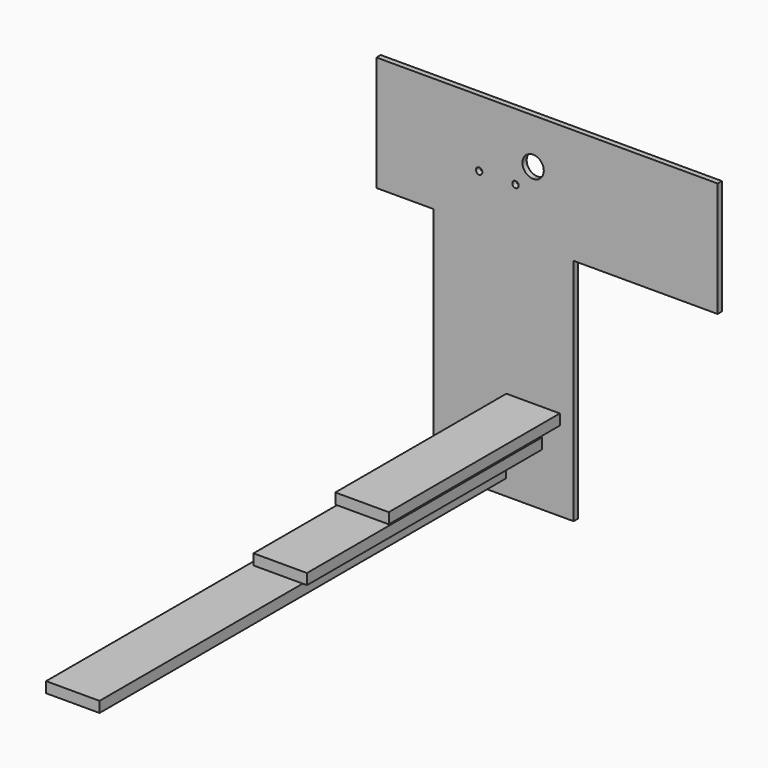
from build123d import *

# Parameters (mm, degrees)
F0_W     = 33
F0_H     = 259.7026857734
F1_DEPTH = 10
F0_W_2   = 17
F0_H_2   = 20
F2_DEPTH = 400
F3_DEPTH = 550
F4_DEPTH = 950


with BuildPart() as f1:
    # F0 (on Front) → F1 (new body)
    with BuildSketch(Plane.XZ):
        Polygon((-127.319598034, -467.7383065224), (-162.6763641834, -467.7383065224), (-162.6763641834, -516.9078111649), (99.3499830365, -516.9078111649), (99.3499830365, -467.7383065224), (-27.319598034, -467.7383065224), (-27.319598034, -487.7383065224), (-127.319598034, -487.7383065224), align=None)
        Polygon((99.3499830365, -88.035620749), (23.680401966, -88.035620749), (23.680401966, -347.7383065224), (73.680401966, -347.7383065224), (99.3499830365, -347.7383065224), align=None)
        Polygon((-77.319598034, -347.7383065224), (-77.319598034, -88.035620749), (-162.6763641834, -88.035620749), (-162.6763641834, -397.7383065224), (-77.319598034, -397.7383065224), align=None)
        Polygon((-77.319598034, -397.7383065224), (-162.6763641834, -397.7383065224), (-162.6763641834, -467.7383065224), (-127.319598034, -467.7383065224), (-77.319598034, -467.7383065224), align=None)
        Polygon((99.3499830365, -347.7383065224), (73.680401966, -347.7383065224), (73.680401966, -367.7383065224), (-9.319598034, -367.7383065224), (-9.319598034, -397.7383065224), (40.680401966, -397.7383065224), (99.3499830365, -397.7383065224), align=None)
        Polygon((-59.319598034, -397.7383065224), (-77.319598034, -397.7383065224), (-77.319598034, -467.7383065224), (-27.319598034, -467.7383065224), (99.3499830365, -467.7383065224), (99.3499830365, -397.7383065224), (40.680401966, -397.7383065224), (40.680401966, -417.7383065224), (-59.319598034, -417.7383065224), align=None)
        with BuildLine():
            Line((-77.319598034, 8.2616934776), (-77.319598034, 42.2616934776))
            Line((-77.319598034, 42.2616934776), (-9.319598034, 42.2616934776))
            Line((-9.319598034, 42.2616934776), (3.680401966, 42.2616934776))
            ThreePointArc((3.680401966, 42.2616934776), (9.5382663422, 56.4038291014), (23.680401966, 62.2616934776))
            ThreePointArc((23.680401966, 62.2616934776), (37.8225375897, 56.4038291014), (43.680401966, 42.2616934776))
            ThreePointArc((43.680401966, 42.2616934776), (37.8225375897, 28.1195578539), (23.680401966, 22.2616934776))
            Line((23.680401966, 22.2616934776), (23.680401966, 2.2616934776))
            Line((23.680401966, 2.2616934776), (23.680401966, -88.035620749))
            Line((23.680401966, -88.035620749), (99.3499830365, -88.035620749))
            Line((99.3499830365, -88.035620749), (368.8704967499, -88.035620749))
            Line((368.8704967499, -88.035620749), (368.8704967499, 126.8763244152))
            Line((368.8704967499, 126.8763244152), (-269.4225609303, 126.8763244152))
            Line((-269.4225609303, 126.8763244152), (-269.4225609303, -88.035620749))
            Line((-269.4225609303, -88.035620749), (-162.6763641834, -88.035620749))
            Line((-162.6763641834, -88.035620749), (-77.319598034, -88.035620749))
            Line((-77.319598034, -88.035620749), (-77.319598034, -3.7383065224))
            ThreePointArc((-77.319598034, -3.7383065224), (-81.5622387211, -1.9809472095), (-83.319598034, 2.2616934776))
            ThreePointArc((-83.319598034, 2.2616934776), (-81.5622387211, 6.5043341647), (-77.319598034, 8.2616934776))
        make_face()
        with BuildLine():
            Line((-9.319598034, 42.2616934776), (-77.319598034, 42.2616934776))
            Line((-77.319598034, 42.2616934776), (-77.319598034, 8.2616934776))
            ThreePointArc((-77.319598034, 8.2616934776), (-73.0769573469, 6.5043341647), (-71.319598034, 2.2616934776))
            Line((-71.319598034, 2.2616934776), (-15.319598034, 2.2616934776))
            ThreePointArc((-15.319598034, 2.2616934776), (-13.5622387211, 6.5043341647), (-9.319598034, 8.2616934776))
            Line((-9.319598034, 8.2616934776), (-9.319598034, 42.2616934776))
        make_face()
        with BuildLine():
            Line((3.680401966, 42.2616934776), (-9.319598034, 42.2616934776))
            Line((-9.319598034, 42.2616934776), (-9.319598034, 8.2616934776))
            ThreePointArc((-9.319598034, 8.2616934776), (-5.0769573469, 6.5043341647), (-3.319598034, 2.2616934776))
            Line((-3.319598034, 2.2616934776), (23.680401966, 2.2616934776))
            Line((23.680401966, 2.2616934776), (23.680401966, 22.2616934776))
            ThreePointArc((23.680401966, 22.2616934776), (9.5382663422, 28.1195578539), (3.680401966, 42.2616934776))
        make_face()
        with BuildLine():
            Line((23.680401966, 2.2616934776), (-3.319598034, 2.2616934776))
            ThreePointArc((-3.319598034, 2.2616934776), (-5.0769573469, -1.9809472095), (-9.319598034, -3.7383065224))
            Line((-9.319598034, -3.7383065224), (-9.319598034, -88.035620749))
            Line((-9.319598034, -88.035620749), (23.680401966, -88.035620749))
            Line((23.680401966, -88.035620749), (23.680401966, 2.2616934776))
        make_face()
        with BuildLine():
            Line((-15.319598034, 2.2616934776), (-71.319598034, 2.2616934776))
            ThreePointArc((-71.319598034, 2.2616934776), (-73.0769573469, -1.9809472095), (-77.319598034, -3.7383065224))
            Line((-77.319598034, -3.7383065224), (-77.319598034, -88.035620749))
            Line((-77.319598034, -88.035620749), (-9.319598034, -88.035620749))
            Line((-9.319598034, -88.035620749), (-9.319598034, -3.7383065224))
            ThreePointArc((-9.319598034, -3.7383065224), (-13.5622387211, -1.9809472095), (-15.319598034, 2.2616934776))
        make_face()
        Polygon((-9.319598034, -88.035620749), (-77.319598034, -88.035620749), (-77.319598034, -347.7383065224), (-26.319598034, -347.7383065224), (-9.319598034, -347.7383065224), align=None)
        with Locations((7.180401966, -217.8869636357)):
            Rectangle(F0_W, F0_H)
        Polygon((-26.319598034, -347.7383065224), (-77.319598034, -347.7383065224), (-77.319598034, -397.7383065224), (-59.319598034, -397.7383065224), (-9.319598034, -397.7383065224), (-9.319598034, -367.7383065224), (-26.319598034, -367.7383065224), align=None)
    extrude(amount=-F1_DEPTH)


with BuildPart() as f2:
    # F0 (on Front) → F2 (new body)
    with BuildSketch(Plane.XZ):
        Polygon((73.680401966, -347.7383065224), (23.680401966, -347.7383065224), (-9.319598034, -347.7383065224), (-9.319598034, -367.7383065224), (73.680401966, -367.7383065224), align=None)
        with Locations((-17.819598034, -357.7383065224)):
            Rectangle(F0_W_2, F0_H_2)
    extrude(amount=F2_DEPTH)


with BuildPart() as f3:
    # F0 (on Front) → F3 (new body)
    with BuildSketch(Plane.XZ):
        Polygon((-9.319598034, -397.7383065224), (-59.319598034, -397.7383065224), (-59.319598034, -417.7383065224), (40.680401966, -417.7383065224), (40.680401966, -397.7383065224), align=None)
    extrude(amount=F3_DEPTH)


with BuildPart() as f4:
    # F0 (on Front) → F4 (new body)
    with BuildSketch(Plane.XZ):
        Polygon((-27.319598034, -467.7383065224), (-77.319598034, -467.7383065224), (-127.319598034, -467.7383065224), (-127.319598034, -487.7383065224), (-27.319598034, -487.7383065224), align=None)
    extrude(amount=F4_DEPTH)


solid = Compound([f1.part, f2.part, f3.part, f4.part])
